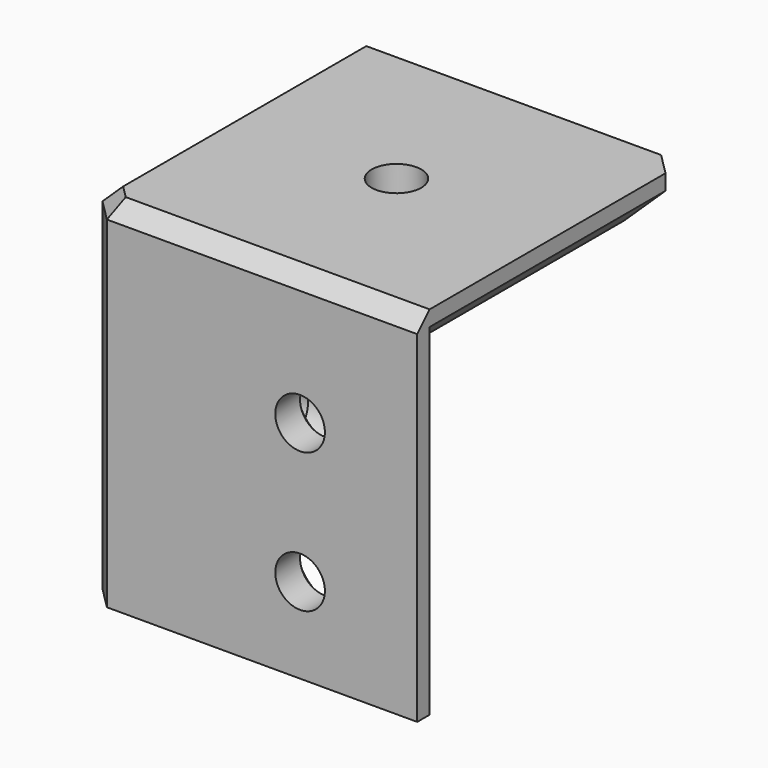
from build123d import *

# Parameters (mm, degrees)
PAD020_DEPTH    = 20
PAD021_DEPTH    = 3
CHAMFER005_SIZE = 2
CHAMFER006_SIZE = 1
SKETCH035_R     = 1.6
POCKET009_DEPTH = 5
CHAMFER007_SIZE = 1
SKETCH036_R     = 1.6
POCKET010_DEPTH = 3
CHAMFER008_SIZE = 1
SKETCH037_R     = 1.6
POCKET011_DEPTH = 3.001
CHAMFER009_SIZE = 1


with BuildPart() as part:
    # Sketch033 → Pad020 (new body)
    with BuildSketch(Plane.XY):
        Polygon((19.414214, 3), (8.313708, 3), (3, 8.313708), (3, 19.414214), (1, 21.414214), (0, 21.414214), (0, 1.414214), (1.414214, 0), (21.414214, 0), (21.414214, 1), align=None)
    extrude(amount=-PAD020_DEPTH)

    # Sketch034 → Pad021 (join)
    with BuildSketch(Plane.XY):
        Polygon((0, 21.414214), (20, 21.414214), (21.414214, 20), (21.414214, 0), (1.414214, 0), (0, 1.414214), align=None)
    extrude(amount=PAD021_DEPTH)

    # Chamfer005
    chamfer005_edges = [part.edges().sort_by_distance(p)[0] for p in [
        (21.414214, 10.5, 0),
        (20.707107, 20.707107, 0),
        (10.5, 21.414214, 0),
    ]]
    chamfer(chamfer005_edges, length=CHAMFER005_SIZE)

    # Chamfer006
    chamfer006_edges = [part.edges().sort_by_distance(p)[0] for p in [
        (0.707107, 0.707107, 3),
        (11.414214, 0, 3),
        (0, 11.414214, 3),
    ]]
    chamfer(chamfer006_edges, length=CHAMFER006_SIZE)

    # Sketch035 (on Face15 of Chamfer006) → Pocket009 (cut)
    with BuildSketch(Plane(origin=(0, 0, 0), x_dir=(1, 0, 0), z_dir=(0, 0, -1))):
        with Locations((11.207107, -11.085786)):
            Circle(SKETCH035_R)
    extrude(amount=-POCKET009_DEPTH, mode=Mode.SUBTRACT)

    # Chamfer007
    chamfer007_edges = [part.edges().sort_by_distance(p)[0] for p in [
        (9.607107, 11.085786, 0),
    ]]
    chamfer(chamfer007_edges, length=CHAMFER007_SIZE)

    # Sketch036 (on Face16 of Chamfer007) → Pocket010 (cut)
    with BuildSketch(Plane.YZ.offset(3)):
        with Locations((13.863961, -14.5)):
            Circle(SKETCH036_R)
        with Locations((13.863961, -5.5)):
            Circle(SKETCH036_R)
    extrude(amount=-POCKET010_DEPTH, mode=Mode.SUBTRACT)

    # Chamfer008
    chamfer008_edges = [part.edges().sort_by_distance(p)[0] for p in [
        (3, 12.263961, -14.5),
        (3, 12.263961, -5.5),
    ]]
    chamfer(chamfer008_edges, length=CHAMFER008_SIZE)

    # Sketch037 (on Face9 of Chamfer008) → Pocket011 (cut, through all)
    with BuildSketch(Plane(origin=(0, 3, 0), x_dir=(-1, 0, 0), z_dir=(0, 1, 0))):
        with Locations((-13.863961, -5.5)):
            Circle(SKETCH037_R)
        with Locations((-13.863961, -14.5)):
            Circle(SKETCH037_R)
    extrude(amount=-POCKET011_DEPTH, mode=Mode.SUBTRACT)

    # Chamfer009
    chamfer009_edges = [part.edges().sort_by_distance(p)[0] for p in [
        (15.463961, 3, -5.5),
        (15.463961, 3, -14.5),
    ]]
    chamfer(chamfer009_edges, length=CHAMFER009_SIZE)


with BuildPart() as part_1:
    # Body034 placement: moved
    add(part.part.moved(Location((0, 0, -18))))


solid = part_1.part
